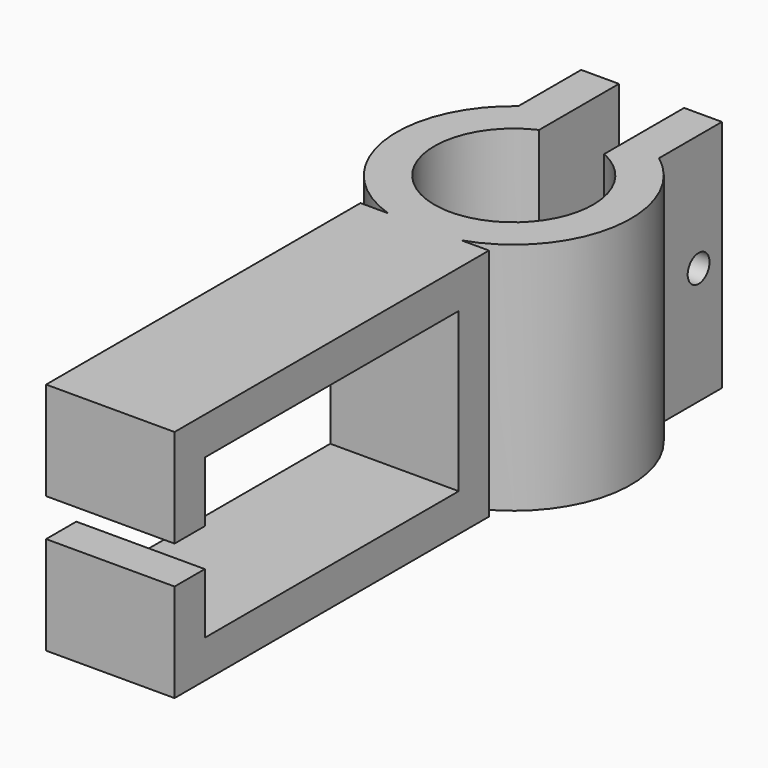
from build123d import *

# Parameters (mm, degrees)
F1_DEPTH = 31
F2_R     = 1.808584
F3_DEPTH = 25
F5_DEPTH = 25


with BuildPart() as f1:
    # F0 (on Top) → F1 (new body)
    with BuildSketch(Plane.XY):
        with BuildLine():
            Line((-4.311411, 30.573439), (-4.311411, 43.788447))
            Line((-4.311411, 43.788447), (-9.311411, 43.788447))
            Line((-9.311411, 43.788447), (-9.311411, 33.390859))
            ThreePointArc((-9.311411, 33.390859), (-15.293246, 18.476209), (-4.837364, 6.273601))
            Line((-4.837364, 6.273601), (-8.5, 6.273601))
            Line((-8.5, 6.273601), (-8.5, -45.726399))
            Line((-8.5, -45.726399), (-7, -45.726399))
            Line((-7, -45.726399), (7, -45.726399))
            Line((7, -45.726399), (8.5, -45.726399))
            Line((8.5, -45.726399), (8.5, 6.273601))
            Line((8.5, 6.273601), (4.837364, 6.273601))
            ThreePointArc((4.837364, 6.273601), (15.293246, 18.476209), (9.311411, 33.390859))
            Line((9.311411, 33.390859), (9.311411, 43.788447))
            Line((9.311411, 43.788447), (4.311411, 43.788447))
            Line((4.311411, 43.788447), (4.311411, 30.573439))
            ThreePointArc((4.311411, 30.573439), (10.367578, 19.337097), (1.102061, 10.557421))
            ThreePointArc((1.102061, 10.557421), (0.551793, 10.513934), (0, 10.499425))
            ThreePointArc((0, 10.499425), (-0.551793, 10.513934), (-1.102061, 10.557421))
            ThreePointArc((-1.102061, 10.557421), (-10.367578, 19.337097), (-4.311411, 30.573439))
        make_face()
        with BuildLine():
            Line((-4.311411, 30.573439), (-4.311411, 43.788447))
            Line((-4.311411, 43.788447), (-9.311411, 43.788447))
            Line((-9.311411, 43.788447), (-9.311411, 33.390859))
            ThreePointArc((-9.311411, 33.390859), (-15.293246, 18.476209), (-4.837364, 6.273601))
            Line((-4.837364, 6.273601), (-8.5, 6.273601))
            Line((-8.5, 6.273601), (-8.5, -45.726399))
            Line((-8.5, -45.726399), (-7, -45.726399))
            Line((-7, -45.726399), (7, -45.726399))
            Line((7, -45.726399), (8.5, -45.726399))
            Line((8.5, -45.726399), (8.5, 6.273601))
            Line((8.5, 6.273601), (4.837364, 6.273601))
            ThreePointArc((4.837364, 6.273601), (15.293246, 18.476209), (9.311411, 33.390859))
            Line((9.311411, 33.390859), (9.311411, 43.788447))
            Line((9.311411, 43.788447), (4.311411, 43.788447))
            Line((4.311411, 43.788447), (4.311411, 30.573439))
            ThreePointArc((4.311411, 30.573439), (10.367578, 19.337097), (1.102061, 10.557421))
            ThreePointArc((1.102061, 10.557421), (0.551793, 10.513934), (0, 10.499425))
            ThreePointArc((0, 10.499425), (-0.551793, 10.513934), (-1.102061, 10.557421))
            ThreePointArc((-1.102061, 10.557421), (-10.367578, 19.337097), (-4.311411, 30.573439))
        make_face()
    extrude(amount=F1_DEPTH)

    # F2 (on face) → F3 (cut)
    with BuildSketch(Plane(origin=(-9.311411, 0, 0), x_dir=(0, -1, 0), z_dir=(-1, 0, 0))):
        with Locations((-39.933514, 15.5)):
            Circle(F2_R)
    extrude(amount=-F3_DEPTH, mode=Mode.SUBTRACT)

    # F4 (on face) → F5 (cut)
    with BuildSketch(Plane(origin=(-8.5, 0, 0), x_dir=(0, -1, 0), z_dir=(-1, 0, 0))):
        Polygon((40.726399, 5), (40.726399, 13), (45.726399, 13), (45.726399, 18), (40.726399, 18), (40.726399, 26), (-1.273601, 26), (-1.273601, 5), align=None)
    extrude(amount=-F5_DEPTH, mode=Mode.SUBTRACT)


solid = f1.part
